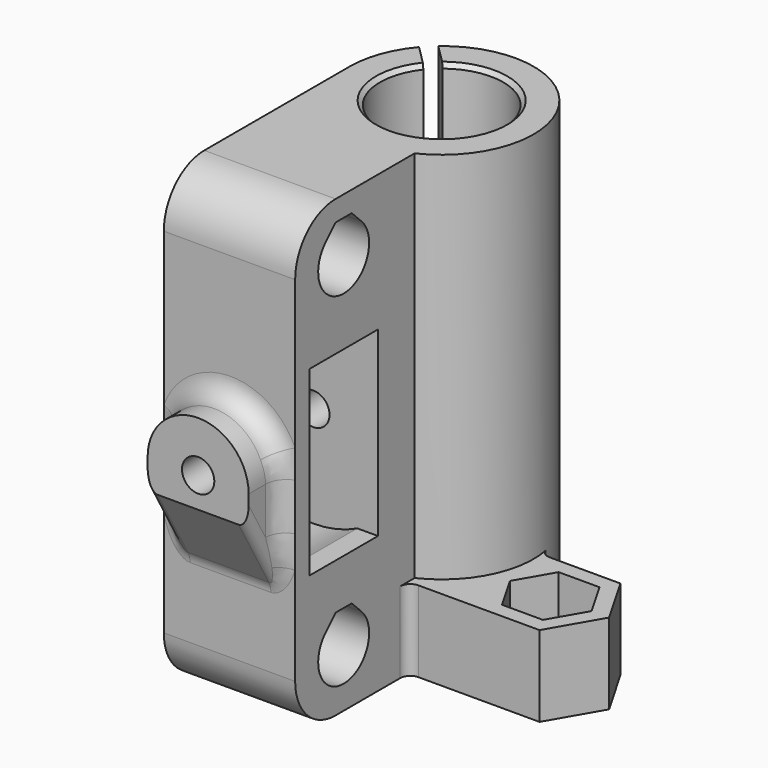
from build123d import *

# Parameters (mm, degrees)
CYLINDER_R          = 10
CYLINDER_DEPTH      = 8.5
CYLINDER_ROLL_ANGLE = 90
PAD001_DEPTH        = 8
POCKET007_DEPTH     = 4
SKETCH_R            = 6.1
PAD_DEPTH           = 45
POCKET_DEPTH        = 45.001
POCKET001_DEPTH     = 11
POCKET002_DEPTH     = 11
FILLET_R            = 5
FILLET001_R         = 1
SKETCH011_R         = 2.5
POCKET008_DEPTH     = 5
SKETCH012_W         = 8.5
SKETCH012_H         = 18
POCKET009_DEPTH     = 13.001
PAD002_DEPTH        = 4
POCKET010_DEPTH     = 10
SKETCH015_R         = 1.6
POCKET011_DEPTH     = 25
POCKET012_DEPTH     = 2.5
FILLET002_R         = 1
FILLET003_R         = 2
CHAMFER_SIZE        = 0.4


with BuildPart() as cilindro:
    # Cylinder → Cylinder (new body)
    with BuildSketch(Plane.XY):
        Circle(CYLINDER_R)
    extrude(amount=CYLINDER_DEPTH)


with BuildPart() as cilindro_1:
    # Cylinder roll: moved
    add(cilindro.part.rotate(Axis((0, 0, 0), (1, 0, 0)), CYLINDER_ROLL_ANGLE))


with BuildPart() as cilindro_2:
    # Cylinder placement: moved
    add(cilindro_1.part.moved(Location((-2.5, -12.75, 22.5))))


with BuildPart() as pocket007:
    # Sketch004 → Pad001 (new body)
    with BuildSketch(Plane.XY):
        with BuildLine():
            Line((2, -9), (2, -7.745967))
            ThreePointArc((2, -7.745967), (6.61893, -4.493302), (7.937254, 1))
            Line((7.937254, 1), (11.113249, 1))
            Line((11.113249, 1), (16.886751, 1))
            Line((16.886751, 1), (19.773503, -4))
            Line((19.773503, -4), (16.886751, -9))
            Line((16.886751, -9), (11.113249, -9))
            Line((11.113249, -9), (2, -9))
        make_face()
    extrude(amount=PAD001_DEPTH)

    # Sketch010 → Pocket007 (cut)
    with BuildSketch(Plane.XY.offset(8)):
        Polygon((16.020726, -7.5), (18.041452, -4), (16.020726, -0.5), (11.979274, -0.5), (9.958548, -4), (11.979274, -7.5), align=None)
    extrude(amount=-POCKET007_DEPTH, mode=Mode.SUBTRACT)


with BuildPart() as chamfer_body:
    # Sketch → Pad (new body)
    with BuildSketch(Plane.XY):
        with BuildLine():
            Line((3.9, -8.221922), (3.9, -23))
            Line((3.9, -23), (-9.1, -23))
            Line((-9.1, -23), (-9.1, 0))
            ThreePointArc((3.9, -8.221922), (4.864155, 7.690904), (-9.1, 0))
        make_face()
        Circle(SKETCH_R, mode=Mode.SUBTRACT)
    extrude(amount=PAD_DEPTH)

    # Sketch001 → Pocket (cut, through all)
    with BuildSketch(Plane.XY.offset(45)):
        Polygon((-8.268504, 7.207843), (-4.025863, 2.965203), (-2.965203, 4.025863), (-7.207843, 8.268504), align=None)
    extrude(amount=-POCKET_DEPTH, mode=Mode.SUBTRACT)

    # Sketch002 → Pocket001 (cut)
    with BuildSketch(Plane.YZ.offset(3.9)):
        with BuildLine():
            ThreePointArc((-19.227386, 7.727387), (-17.000001, 2.35), (-14.772613, 7.727386))
            Line((-14.772613, 7.727386), (-15.999999, 8.954773))
            Line((-17.999999, 8.954773), (-15.999999, 8.954773))
            Line((-19.227386, 7.727387), (-17.999999, 8.954773))
        make_face()
    extrude(amount=-POCKET001_DEPTH, mode=Mode.SUBTRACT)

    # Sketch003 → Pocket002 (cut)
    with BuildSketch(Plane.YZ.offset(3.9)):
        with BuildLine():
            ThreePointArc((-19.227387, 41.727386), (-17, 36.35), (-14.772614, 41.727386))
            Line((-16, 42.954773), (-14.772614, 41.727386))
            Line((-18, 42.954773), (-16, 42.954773))
            Line((-19.227387, 41.727386), (-18, 42.954773))
        make_face()
    extrude(amount=-POCKET002_DEPTH, mode=Mode.SUBTRACT)

    # Fillet
    fillet_edges = [chamfer_body.edges().sort_by_distance(p)[0] for p in [
        (-2.6, -23, 45),
        (-2.6, -23, 0),
    ]]
    fillet(fillet_edges, radius=FILLET_R)

    # Fusion: union Pocket007
    add(pocket007.part)

    # Fillet001
    fillet001_edges = [chamfer_body.edges().sort_by_distance(p)[0] for p in [
        (3.9, -9, 4),
        (9.044888, 1, 4),
    ]]
    fillet(fillet001_edges, radius=FILLET001_R)

    # Sketch011 → Pocket008 (cut)
    with BuildSketch(Plane.XY.offset(4)):
        with Locations((14, -4)):
            Circle(SKETCH011_R)
    extrude(amount=-POCKET008_DEPTH, mode=Mode.SUBTRACT)

    # Sketch012 → Pocket009 (cut, through all)
    with BuildSketch(Plane.YZ.offset(3.9)):
        with Locations((-17, 22.5)):
            Rectangle(SKETCH012_W, SKETCH012_H)
    extrude(amount=-POCKET009_DEPTH, mode=Mode.SUBTRACT)

    # Sketch013 → Pad002 (new body)
    with BuildSketch(Plane.XZ.offset(23)):
        with BuildLine():
            ThreePointArc((2.5, 22.5), (-2.5, 27.5), (-7.5, 22.5))
            Line((-7.5, 22.5), (-7.5, 12.5))
            Line((-7.5, 12.5), (2.5, 12.5))
            Line((2.5, 12.5), (2.5, 22.5))
        make_face()
    extrude(amount=PAD002_DEPTH)

    # Sketch014 → Pocket010 (cut)
    with BuildSketch(Plane.YZ.offset(2.5)):
        Polygon((-23, 12.5), (-27, 19.5), (-27, 12.5), align=None)
    extrude(amount=-POCKET010_DEPTH, mode=Mode.SUBTRACT)

    # Sketch015 → Pocket011 (cut)
    with BuildSketch(Plane.XZ.offset(27)):
        with Locations((-2.5, 22.5)):
            Circle(SKETCH015_R)
    extrude(amount=-POCKET011_DEPTH, mode=Mode.SUBTRACT)

    # Sketch016 → Pocket012 (cut)
    with BuildSketch(Plane(origin=(0, -21.25, 0), x_dir=(-1, 0, 0), z_dir=(0, 1, 0))):
        Polygon((2.5, 19.324574), (5.25, 20.912287), (5.25, 24.087713), (2.5, 25.675426), (-0.25, 24.087713), (-0.25, 20.912287), align=None)
    extrude(amount=-POCKET012_DEPTH, mode=Mode.SUBTRACT)

    # Fillet002
    fillet002_edges = [chamfer_body.edges().sort_by_distance(p)[0] for p in [
        (2.5, -25, 16),
        (-7.5, -25, 16),
    ]]
    fillet(fillet002_edges, radius=FILLET002_R)

    # Fillet003
    fillet003_edges = [chamfer_body.edges().sort_by_distance(p)[0] for p in [
        (-2.5, -23, 27.5),
    ]]
    fillet(fillet003_edges, radius=FILLET003_R)

    # Cut: cut Cilindro
    add(cilindro_2.part, mode=Mode.SUBTRACT)

    # Chamfer
    chamfer_edges = [chamfer_body.edges().sort_by_distance(p)[0] for p in [
        (-1.982823, -5.768744, 45),
        (2.677051, 5.481186, 45),
        (-1.982823, -5.768744, 0),
        (2.677051, 5.481186, 0),
    ]]
    chamfer(chamfer_edges, length=CHAMFER_SIZE)


solid = chamfer_body.part
